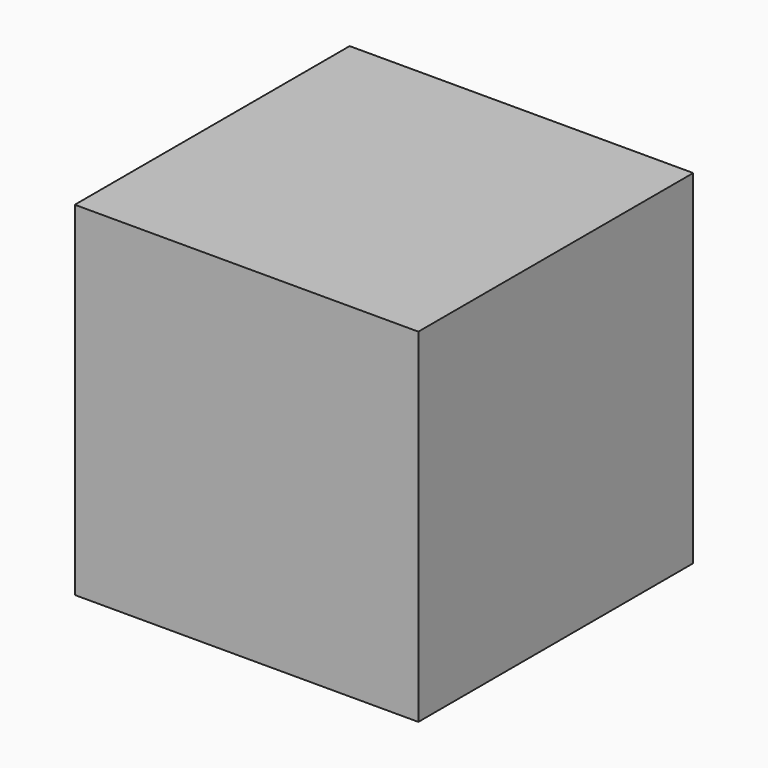
from build123d import *

# Parameters (mm, degrees)
BOX_W      = 10
BOX_H      = 10
BOX_DEPTH  = 10
BOX1_W     = 5
BOX1_H     = 5
BOX1_DEPTH = 5


with BuildPart() as box:
    # Box → Box (new body)
    with BuildSketch(Plane.XY):
        with Locations((5, 5)):
            Rectangle(BOX_W, BOX_H)
    extrude(amount=BOX_DEPTH)


with BuildPart() as box1:
    # Box1 → Box1 (new body)
    with BuildSketch(Plane(origin=(2.5, 2.5, 2.5), x_dir=(1, 0, 0), z_dir=(0, 0, 1))):
        with Locations((2.5, 2.5)):
            Rectangle(BOX1_W, BOX1_H)
    extrude(amount=BOX1_DEPTH)


solid = Compound([box.part, box1.part])
